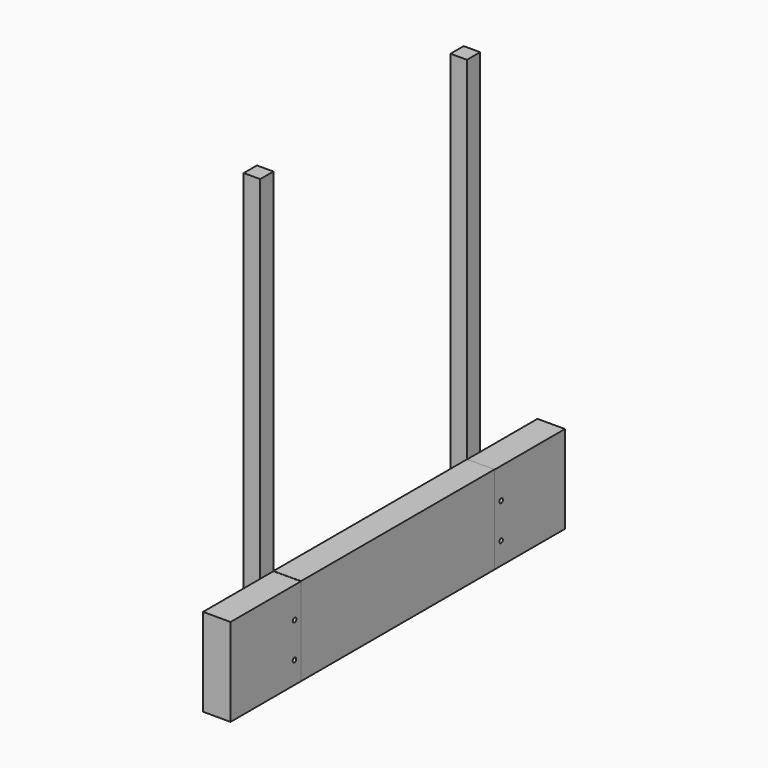
from build123d import *

# Parameters (mm, degrees)
F0_W     = 15
F0_H     = 400
F1_DEPTH = 15
F2_W     = 220
F2_H     = 80.168433
F3_DEPTH = 25
F4_W     = 80
F4_H     = 80
F5_DEPTH = 25
F6_R     = 2
F7_DEPTH = 100


with BuildPart() as f1:
    # F0 (on Right) → F1 (new body)
    with BuildSketch(Plane.YZ):
        with Locations((-160.196858, 6.260082)):
            Rectangle(F0_W, F0_H)
        with Locations((74.803142, 6.260082)):
            Rectangle(F0_W, F0_H)
    extrude(amount=F1_DEPTH)


with BuildPart() as f3:
    # F2 (on face) → F3 (new body)
    with BuildSketch(Plane.YZ.offset(15)):
        with Locations((-42.696858, -153.655701)):
            Rectangle(F2_W, F2_H)
    extrude(amount=F3_DEPTH)


with BuildPart() as f5:
    # F4 (on face) → F5 (new body)
    with BuildSketch(Plane.YZ.offset(15)):
        with Locations((-192.696858, -153.739918)):
            Rectangle(F4_W, F4_H)
        with Locations((107.417637, -153.739918)):
            Rectangle(F4_W, F4_H)
    extrude(amount=F5_DEPTH)


with BuildPart() as f7_tool:
    # F6 (on face) → F7 (new body)
    with BuildSketch(Plane(origin=(0, 0, 0), x_dir=(0, -1, 0), z_dir=(-1, 0, 0))):
        with Locations((-74.871637, -141.739918)):
            Circle(F6_R)
        with Locations((159.844488, -141.739918)):
            Circle(F6_R)
        with Locations((-74.802466, -173.739918)):
            Circle(F6_R)
        with Locations((160.041481, -173.739918)):
            Circle(F6_R)
    extrude(amount=-F7_DEPTH)


with BuildPart() as f1_1:
    add(f1.part)

    # F7: cut by f7_tool
    add(f7_tool.part, mode=Mode.SUBTRACT)


with BuildPart() as f5_1:
    add(f5.part)

    # F7: cut by f7_tool
    add(f7_tool.part, mode=Mode.SUBTRACT)


solid = Compound([f3.part, f1_1.part, f5_1.part])
